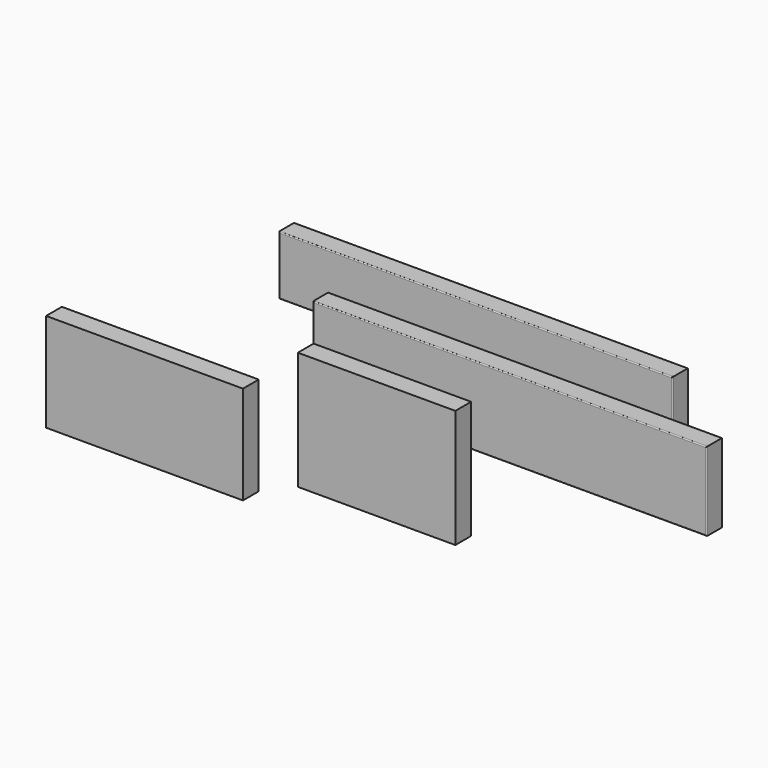
from build123d import *

# Parameters (mm, degrees)
F0_W     = 2000
F0_H     = 100
F1_DEPTH = 300
F2_R     = 5
F3_W     = 2000
F3_H     = 100
F4_DEPTH = 400
F5_R     = 5
F6_W     = 800
F6_H     = 100
F7_DEPTH = 600
F8_W     = 1000
F8_H     = 100
F9_DEPTH = 500


with BuildPart() as f1:
    # F0 (on Top) → F1 (new body)
    with BuildSketch(Plane.XY):
        Rectangle(F0_W, F0_H)
    extrude(amount=F1_DEPTH)

    # F2
    f2_edges = [f1.edges().sort_by_distance(p)[0] for p in [
        (-1000, -50, 150),
        (1000, -50, 150),
        (0, -50, 0),
        (0, -50, 300),
        (1000, 50, 150),
        (-1000, 50, 150),
        (0, 50, 0),
        (0, 50, 300),
    ]]
    fillet(f2_edges, radius=F2_R)


with BuildPart() as f4:
    # F3 (on Top) → F4 (new body)
    with BuildSketch(Plane.XY):
        with Locations((599.769463, -533.028677)):
            Rectangle(F3_W, F3_H)
    extrude(amount=F4_DEPTH)

    # F5
    f5_edges = [f4.edges().sort_by_distance(p)[0] for p in [
        (-400.230537, -583.028677, 200),
        (1599.769463, -583.028677, 200),
        (599.769463, -583.028677, 0),
        (599.769463, -583.028677, 400),
        (1599.769463, -483.028677, 200),
        (-400.230537, -483.028677, 200),
        (599.769463, -483.028677, 0),
        (599.769463, -483.028677, 400),
    ]]
    fillet(f5_edges, radius=F5_R)


with BuildPart() as f7:
    # F6 (on Top) → F7 (new body)
    with BuildSketch(Plane.XY):
        with Locations((468.436748, -1214.408671)):
            Rectangle(F6_W, F6_H)
    extrude(amount=F7_DEPTH)


with BuildPart() as f9:
    # F8 (on Top) → F9 (new body)
    with BuildSketch(Plane.XY):
        with Locations((-528.473079, -1441.416586)):
            Rectangle(F8_W, F8_H)
    extrude(amount=F9_DEPTH)


solid = Compound([f1.part, f4.part, f7.part, f9.part])
